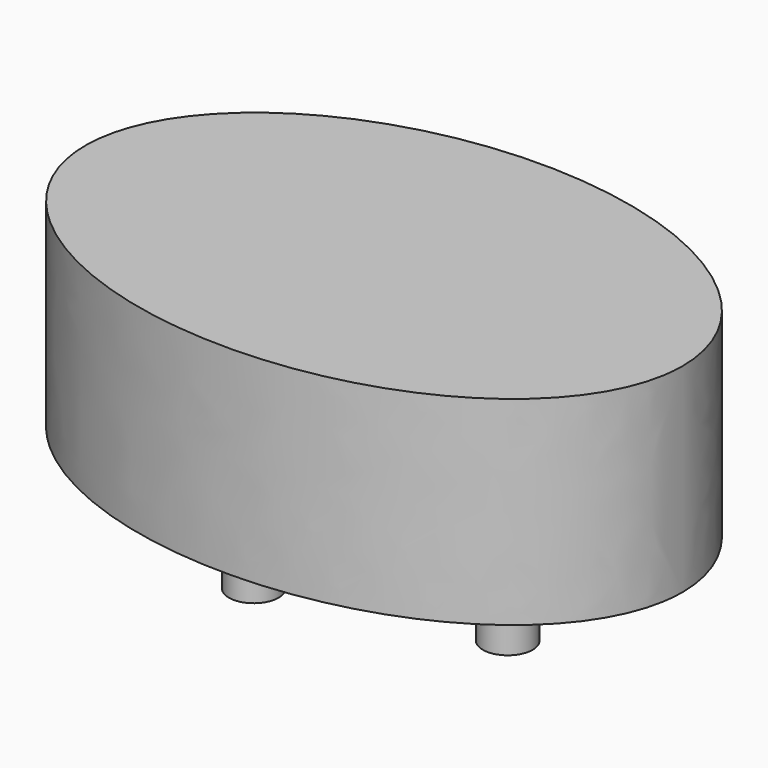
from build123d import *

# Parameters (mm, degrees)
F1_DEPTH = 25.4
F2_R     = 3.175
F3_DEPTH = 12.7
F4_DEPTH = 12.7


with BuildPart() as f1:
    # F0 (on Top) → F1 (new body)
    with BuildSketch(Plane.XY):
        with BuildLine():
            add(Edge.make_bspline(
                [(38.1, 0), (38.1, 43.709893), (-19.05, 21.854947), (-76.2, 0), (-19.05, -21.854947), (38.1, -43.709893), (38.1, 0)],
                knots=[0, 0, 0, 2.094395, 2.094395, 4.18879, 4.18879, 6.283185, 6.283185, 6.283185], degree=2, weights=[1, 0.5, 1, 0.5, 1, 0.5, 1]))
        make_face()
    extrude(amount=F1_DEPTH)

    # F2 (on face) → F3 (join)
    with BuildSketch(Plane(origin=(0, 0, 0), x_dir=(1, 0, 0), z_dir=(0, 0, -1))):
        with Locations((15.786032, 0)):
            Circle(F2_R)
    extrude(amount=F3_DEPTH)

    # F2 (on face) → F4 (join)
    with BuildSketch(Plane(origin=(0, 0, 0), x_dir=(1, 0, 0), z_dir=(0, 0, -1))):
        with Locations((-10.99679, 7.028894)):
            Circle(F2_R)
        with Locations((-10.99679, -8.184329)):
            Circle(F2_R)
    extrude(amount=F4_DEPTH)


solid = f1.part
